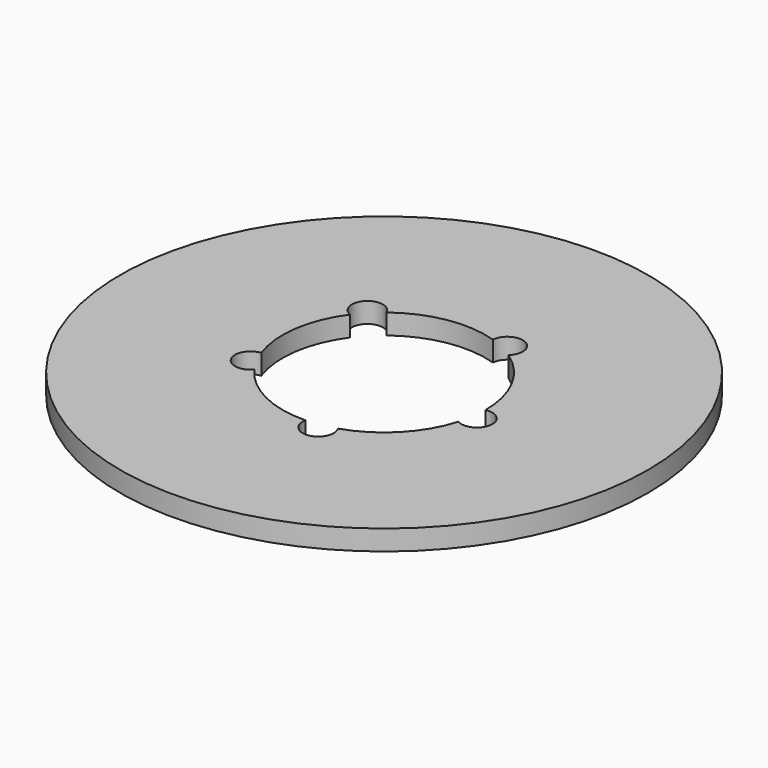
from build123d import *

# Parameters (mm, degrees)
F0_R     = 39.141402
F1_DEPTH = 3
F2_R     = 15.05
F3_DEPTH = 3
F5_R     = 2.3
F6_DEPTH = 3


with BuildPart() as f1:
    # F0 (on Top) → F1 (new body)
    with BuildSketch(Plane.XY):
        Circle(F0_R)
    extrude(amount=F1_DEPTH)

    # F2 (on face) → F3 (cut)
    with BuildSketch(Plane.XY.offset(3)):
        Circle(F2_R)
    extrude(amount=-F3_DEPTH, mode=Mode.SUBTRACT)

    # F5 (on face) → F6 (cut)
    with BuildSketch(Plane.XY.offset(3)):
        with Locations((15.584218, -2.272043)):
            Circle(F5_R)
        with Locations((2.653755, -15.524809)):
            Circle(F5_R)
        with Locations((-13.944715, -7.321658)):
            Circle(F5_R)
        with Locations((-11.273245, 11.001117)):
            Circle(F5_R)
        with Locations((6.977401, 14.120086)):
            Circle(F5_R)
    extrude(amount=-F6_DEPTH, mode=Mode.SUBTRACT)


solid = f1.part
